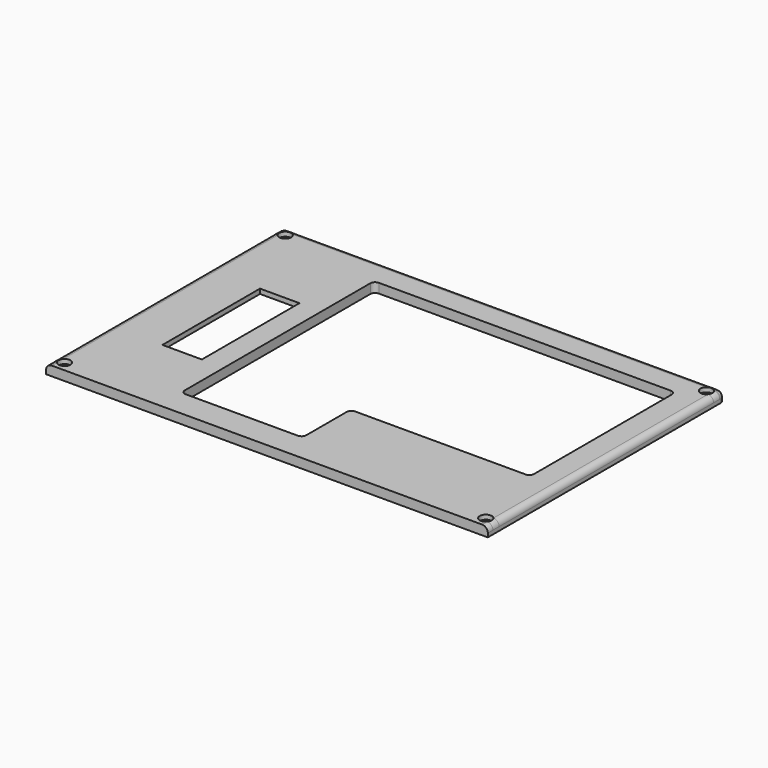
from build123d import *

# Parameters (mm, degrees)
SKETCH057_W                       = 140
SKETCH057_H                       = 93.9
PAD006_DEPTH                      = 3
SKETCH058_W                       = 12.5
SKETCH058_H                       = 38.6472
POCKET043_DEPTH                   = 3
SKETCH059_W                       = 24
SKETCH059_H                       = 60
POCKET044_DEPTH                   = 1.5
SKETCH060_R                       = 1.05
POCKET045_DEPTH                   = 3.001
SKETCH061_R                       = 1.9
POCKET046_DEPTH                   = 1.4
CHAMFER002_1_ANGLE                = 45
CHAMFER002_1_SIZE                 = 0.843
CHAMFER002_2_ANGLE                = 45
CHAMFER002_2_SIZE                 = 0.843
CHAMFER002_3_ANGLE                = 45
CHAMFER002_3_SIZE                 = 0.843
CHAMFER002_4_ANGLE                = 45
CHAMFER002_4_SIZE                 = 0.843
FILLET007_R                       = 1.5
SKETCH062_R                       = 4.85
POCKET047_DEPTH                   = 10
FILLET008_R                       = 1.8
BODY005_PLACEMENT_ANGLE           = 180
PART_MIRRORING001_PLACEMENT_ANGLE = 180


with BuildPart() as top002:
    # Sketch057 (on XY_Plane154 of Origin626) → Pad006 (new body)
    with BuildSketch(Plane.XY):
        Rectangle(SKETCH057_W, SKETCH057_H)
    extrude(amount=PAD006_DEPTH)

    # Sketch058 (on Face6 of Pad006) → Pocket043 (cut)
    with BuildSketch(Plane.XY.offset(3)):
        Polygon((-61.3, 38.25), (-61.3, -19.25), (-4.3, -19.25), (-4.3, -38.25), (34.2, -38.25), (34.2, 38.25), align=None)
        with Locations((47.48708, -1.86296)):
            Rectangle(SKETCH058_W, SKETCH058_H)
    extrude(amount=-POCKET043_DEPTH, mode=Mode.SUBTRACT)

    # Sketch059 (on Face4 of Pocket043) → Pocket044 (cut)
    with BuildSketch(Plane(origin=(0, 0, 0), x_dir=(1, 0, 0), z_dir=(0, 0, -1))):
        with Locations((48, -11.55)):
            Rectangle(SKETCH059_W, SKETCH059_H)
    extrude(amount=-POCKET044_DEPTH, mode=Mode.SUBTRACT)

    # Sketch060 (on Face5 of Pocket044) → Pocket045 (cut, through all)
    with BuildSketch(Plane.XY.offset(3)):
        with Locations((66.75, 43.7)):
            Circle(SKETCH060_R)
        with Locations((66.75, -43.7)):
            Circle(SKETCH060_R)
        with Locations((-66.75, -43.7)):
            Circle(SKETCH060_R)
        with Locations((-66.75, 43.7)):
            Circle(SKETCH060_R)
    extrude(amount=-POCKET045_DEPTH, mode=Mode.SUBTRACT)

    # Sketch061 (on Face5 of Pocket045) → Pocket046 (cut)
    with BuildSketch(Plane.XY.offset(3)):
        with Locations((-66.75, 43.7)):
            Circle(SKETCH061_R)
        with Locations((66.75, 43.7)):
            Circle(SKETCH061_R)
        with Locations((-66.75, -43.7)):
            Circle(SKETCH061_R)
        with Locations((66.75, -43.7)):
            Circle(SKETCH061_R)
    extrude(amount=-POCKET046_DEPTH, mode=Mode.SUBTRACT)

    # Chamfer002 1
    chamfer002_1_edges = [top002.edges().sort_by_distance(p)[0] for p in [
        (-67.8, 43.7, 1.6),
    ]]
    chamfer002_1_side = top002.faces().sort_by_distance((-67.8, 43.7, 0.8))[0]
    chamfer(chamfer002_1_edges, length=CHAMFER002_1_SIZE, angle=CHAMFER002_1_ANGLE, reference=chamfer002_1_side)

    # Chamfer002 2
    chamfer002_2_edges = [top002.edges().sort_by_distance(p)[0] for p in [
        (65.7, -43.7, 1.6),
    ]]
    chamfer002_2_side = top002.faces().sort_by_distance((65.7, -43.7, 0.8))[0]
    chamfer(chamfer002_2_edges, length=CHAMFER002_2_SIZE, angle=CHAMFER002_2_ANGLE, reference=chamfer002_2_side)

    # Chamfer002 3
    chamfer002_3_edges = [top002.edges().sort_by_distance(p)[0] for p in [
        (-67.8, -43.7, 1.6),
    ]]
    chamfer002_3_side = top002.faces().sort_by_distance((-67.8, -43.7, 0.8))[0]
    chamfer(chamfer002_3_edges, length=CHAMFER002_3_SIZE, angle=CHAMFER002_3_ANGLE, reference=chamfer002_3_side)

    # Chamfer002 4
    chamfer002_4_edges = [top002.edges().sort_by_distance(p)[0] for p in [
        (65.7, 43.7, 1.6),
    ]]
    chamfer002_4_side = top002.faces().sort_by_distance((65.7, 43.7, 0.8))[0]
    chamfer(chamfer002_4_edges, length=CHAMFER002_4_SIZE, angle=CHAMFER002_4_ANGLE, reference=chamfer002_4_side)

    # Fillet007
    fillet007_edges = [top002.edges().sort_by_distance(p)[0] for p in [
        (-4.3, -38.25, 1.5),
        (34.2, -38.25, 1.5),
        (34.2, 38.25, 1.5),
        (-61.3, 38.25, 1.5),
        (-61.3, -19.25, 1.5),
        (-4.3, -19.25, 1.5),
    ]]
    fillet(fillet007_edges, radius=FILLET007_R)

    # Sketch062 (on Face16 of Fillet007) → Pocket047 (cut)
    with BuildSketch(Plane.YZ.offset(70)):
        with Locations((-33.64, -3.85)):
            Circle(SKETCH062_R)
    extrude(amount=-POCKET047_DEPTH, mode=Mode.SUBTRACT)

    # Fillet008
    fillet008_edges = [top002.edges().sort_by_distance(p)[0] for p in [
        (70, 0, 3),
        (0, 46.95, 3),
        (70, 46.95, 1.5),
        (-70, 46.95, 1.5),
        (-70, 0, 3),
    ]]
    fillet(fillet008_edges, radius=FILLET008_R)


with BuildPart() as top002_1:
    # Body005 placement: moved
    add(top002.part.moved(Location((150, 0, 2.9))).rotate(Axis((150, 0, 2.9), (0, 1, 0)), BODY005_PLACEMENT_ANGLE))


with BuildPart() as part_mirroring001:
    # Part__Mirroring001: instance of Top002
    add(top002_1.part.mirror(Plane(origin=(0, 0, 0), x_dir=(0, -1, 0), z_dir=(1, 0, 0))))


with BuildPart() as part_mirroring001_1:
    # Part__Mirroring001 placement: moved
    add(part_mirroring001.part.moved(Location((-50, 0, 13.4))).rotate(Axis((-50, 0, 13.4), (0, 1, 0)), PART_MIRRORING001_PLACEMENT_ANGLE))


solid = part_mirroring001_1.part
